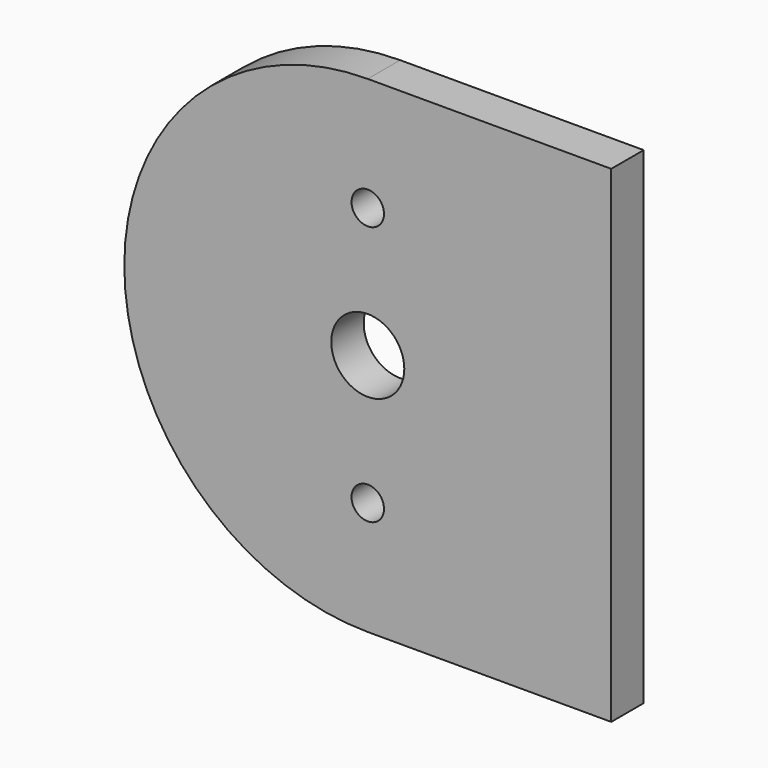
from build123d import *

# Parameters (mm, degrees)
F0_R     = 2
F0_R_2   = 4.5
F1_DEPTH = 5


with BuildPart() as f1:
    # F0 (on Front) → F1 (new body)
    with BuildSketch(Plane.XZ):
        with BuildLine():
            Line((15, -30), (15, 30))
            Line((15, 30), (-15, 30))
            ThreePointArc((-15, 30), (-45, 0), (-15, -30))
            Line((-15, -30), (15, -30))
        make_face()
        with Locations((-15, -16)):
            Circle(F0_R, mode=Mode.SUBTRACT)
        with Locations((-15, 0)):
            Circle(F0_R_2, mode=Mode.SUBTRACT)
        with Locations((-15, 16)):
            Circle(F0_R, mode=Mode.SUBTRACT)
    extrude(amount=F1_DEPTH)


solid = f1.part
